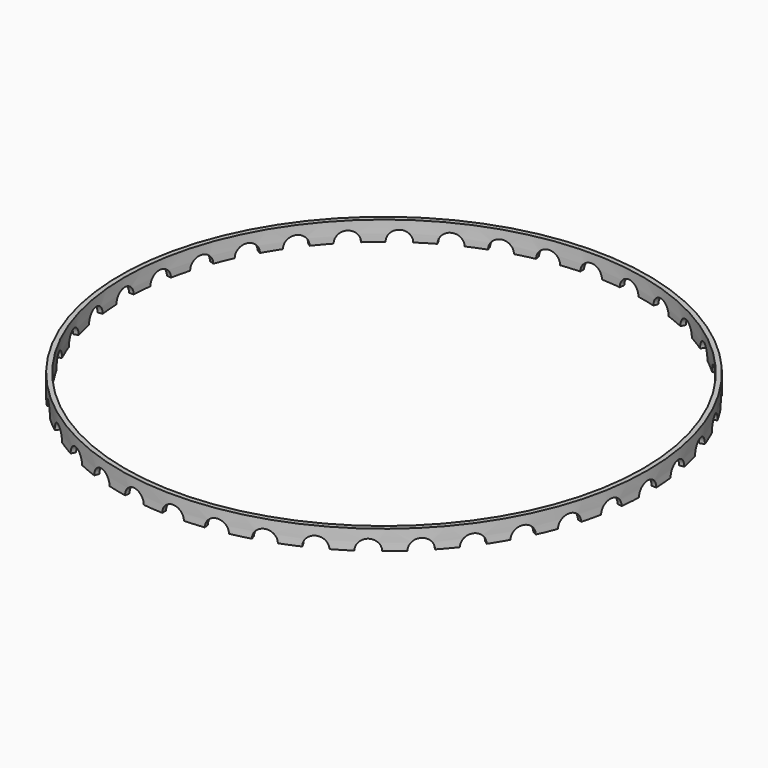
from build123d import *

# Parameters (mm, degrees)
CYLINDER001_R      = 65.8
CYLINDER001_DEPTH  = 18.5
CYLINDER_R         = 67
CYLINDER_DEPTH     = 5
SKETCH_W           = 10
SKETCH_H           = 2.75
POLARPATTERN_COUNT = 40


with BuildPart() as cylinder001:
    # Cylinder001 → Cylinder001 (new body)
    with BuildSketch(Plane.XY):
        Circle(CYLINDER001_R)
    extrude(amount=CYLINDER001_DEPTH)


with BuildPart() as polarpattern:
    # Cylinder → Cylinder (new body)
    with BuildSketch(Plane.XY):
        Circle(CYLINDER_R)
    extrude(amount=CYLINDER_DEPTH)

    # Cut: cut Cylinder001
    add(cylinder001.part, mode=Mode.SUBTRACT)

    # Sketch → Groove (revolve, cut)
    with BuildSketch(Plane(origin=(0, 0, 0), x_dir=(1, 0, 0), z_dir=(0, 0, -1))):
        with Locations((65, 1.375)):
            Rectangle(SKETCH_W, SKETCH_H)
    groove = revolve(axis=Axis((0, 0, 0), (1, 0, 0)), mode=Mode.SUBTRACT)

    # PolarPattern: Groove ×40 about axis
    polarpattern_axis = Axis((0, 0, 0), (0, 0, -1))
    for i in range(1, POLARPATTERN_COUNT):
        add(groove.rotate(polarpattern_axis, i * 360 / POLARPATTERN_COUNT), mode=Mode.SUBTRACT)


solid = polarpattern.part
